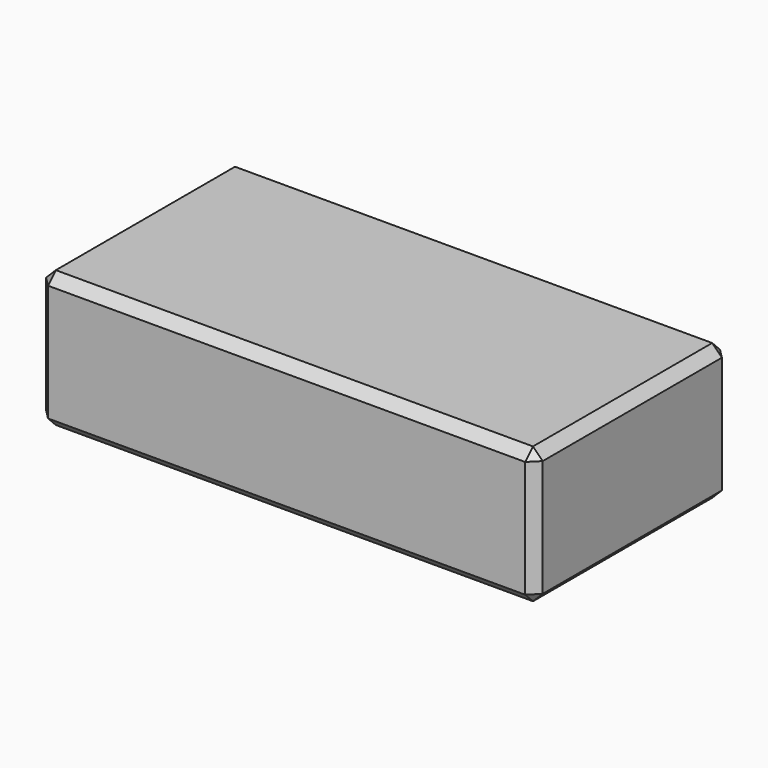
from build123d import *

# Parameters (mm, degrees)
F0_W    = 255
F0_H    = 125
F3_SIZE = 5


with BuildPart() as f2:
    # F2: sweep along a path in F1
    with BuildLine(Plane.XZ) as f2_path:
        Line((0, 0), (0, 70))
    # F0 (on Top) → F2 (sweep)
    with BuildSketch(Plane.XY):
        with Locations((127.5, 62.5)):
            Rectangle(F0_W, F0_H)
    sweep(path=f2_path.line)

    # F3
    f3_edges = [f2.edges().sort_by_distance(p)[0] for p in [
        (127.5, 0, 70),
        (255, 62.5, 70),
        (0, 62.5, 70),
        (127.5, 125, 70),
        (255, 0, 35),
        (255, 125, 35),
        (0, 0, 35),
        (0, 62.5, 0),
        (127.5, 0, 0),
        (255, 62.5, 0),
        (127.5, 125, 0),
        (0, 125, 35),
    ]]
    chamfer(f3_edges, length=F3_SIZE)


solid = f2.part
